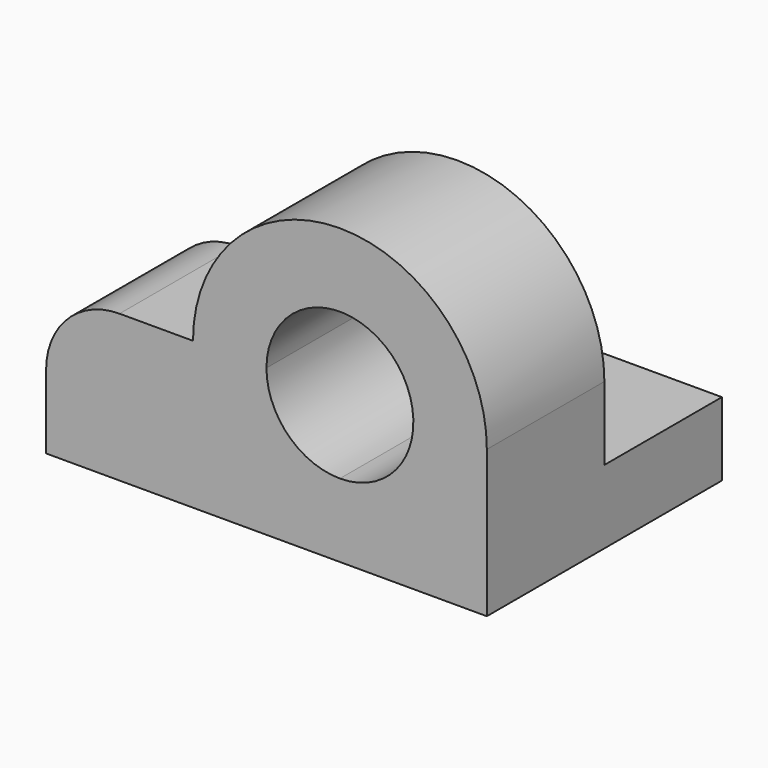
from build123d import *

# Parameters (mm, degrees)
F0_W     = 60
F0_H     = 40
F1_DEPTH = 10
F2_W     = 60
F2_H     = 20
F3_DEPTH = 10
F5_DEPTH = 20
F6_R     = 10
F8_DEPTH = 20


with BuildPart() as f1:
    # F0 (on Top) → F1 (new body)
    with BuildSketch(Plane.XY):
        Rectangle(F0_W, F0_H)
    extrude(amount=F1_DEPTH)

    # F2 (on face) → F3 (join)
    with BuildSketch(Plane.XY.offset(10)):
        with Locations((0, -10)):
            Rectangle(F2_W, F2_H)
    extrude(amount=F3_DEPTH)

    # F4 (on face) → F5 (join)
    with BuildSketch(Plane(origin=(0, 0, 0), x_dir=(-1, 0, 0), z_dir=(0, 1, 0))):
        with BuildLine():
            Line((-30, 20), (10, 20))
            ThreePointArc((10, 20), (-10, 40), (-30, 20))
        make_face()
    extrude(amount=-F5_DEPTH)

    # F6
    f6_edges = [f1.edges().sort_by_distance(p)[0] for p in [
        (-30, -10, 20),
    ]]
    fillet(f6_edges, radius=F6_R)

    # F7 (on face) → F8 (cut)
    with BuildSketch(Plane(origin=(0, 0, 0), x_dir=(-1, 0, 0), z_dir=(0, 1, 0))):
        with BuildLine():
            ThreePointArc((-10, 10), (-2.928932, 12.928932), (0, 20))
            ThreePointArc((0, 20), (-17.071068, 27.071068), (-10, 10))
        make_face()
    extrude(amount=-F8_DEPTH, mode=Mode.SUBTRACT)


solid = f1.part
